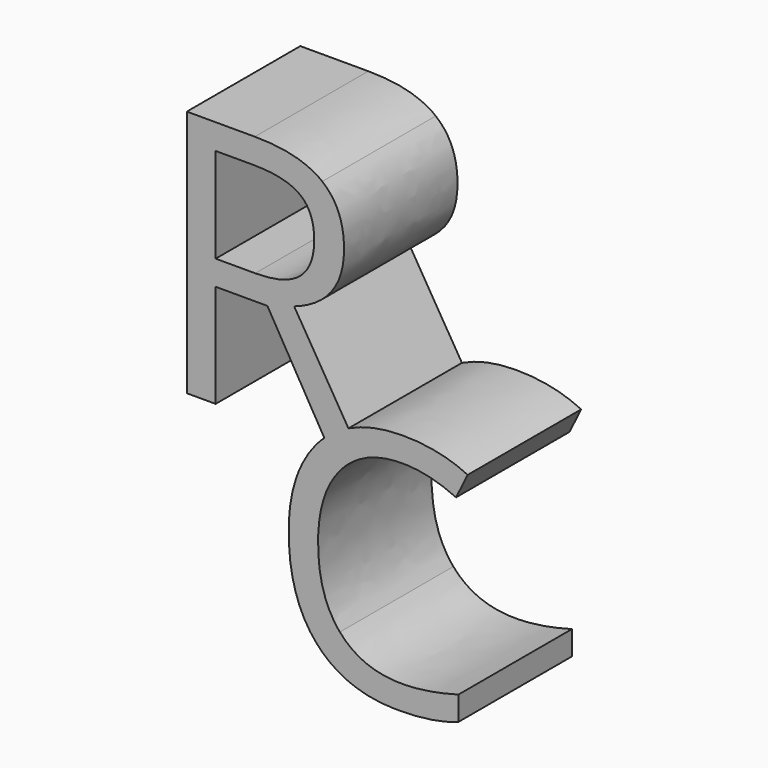
from build123d import *

# Parameters (mm, degrees)
F1_DEPTH = 25.4


with BuildPart() as f1:
    # F0 (on Front) → F1 (new body)
    with BuildSketch(Plane.XZ):
        with BuildLine():
            Line((-23.2034021339, -15.684212558), (-23.2034021339, 2.7805077763))
            Line((-23.2034021339, 2.7805077763), (-13.9321688714, 2.7805077763))
            Line((-13.9321688714, 2.7805077763), (-3.7426993589, -14.7240058528))
            add(Edge.make_bspline(
                [(-3.7426993589, -14.7240058528), (-2.3252619438, -13.4218784509), (-0.6077529949, -12.4313391875)],
                knots=[0.6285946929, 0.6285946929, 0.6285946929, 1, 1, 1], degree=2))
            add(Edge.make_bspline(
                [(-0.6077529949, -12.4313391875), (-0.0292455638, -12.0976964865), (0.5748858439, -11.8057925574)],
                knots=[0, 0, 0, 0.12510021, 0.12510021, 0.12510021], degree=2))
            Line((0.5748858439, -11.8057925574), (-9.1410598583, 4.2674036769))
            add(Edge.make_bspline(
                [(-0.2099661809, 16.1722891555), (-0.2099661809, 7.3675330382), (-9.1410598583, 4.2674036769)],
                knots=[0, 0, 0, 1, 1, 1], degree=2))
            add(Edge.make_bspline(
                [(-4.1118531357, 25.5892965259), (-0.2099661809, 22.460012343), (-0.2099661809, 16.1722891555)],
                knots=[0, 0, 0, 1, 1, 1], degree=2))
            add(Edge.make_bspline(
                [(-16.1868084069, 28.7185807089), (-8.0137400906, 28.7185807089), (-4.1118531357, 25.5892965259)],
                knots=[0, 0, 0, 1, 1, 1], degree=2))
            Line((-16.1868084069, 28.7185807089), (-28.3638055537, 28.7185807089))
            Line((-28.3638055537, 28.7185807089), (-28.3638055537, -15.684212558))
            Line((-28.3638055537, -15.684212558), (-23.2034021339, -15.684212558))
        make_face()
        with BuildLine():
            Line((-16.1187804899, 7.2120406565), (-23.2034021339, 7.2120406565))
            Line((-23.2034021339, 7.2120406565), (-23.2034021339, 24.1898650901))
            Line((-23.2034021339, 24.1898650901), (-16.4880748966, 24.1898650901))
            add(Edge.make_bspline(
                [(-8.1497959246, 22.2462103181), (-10.7445750453, 24.1898650901), (-16.4880748966, 24.1898650901)],
                knots=[0, 0, 0, 1, 1, 1], degree=2))
            add(Edge.make_bspline(
                [(-5.555016804, 15.9001774874), (-5.555016804, 20.302555546), (-8.1497959246, 22.2462103181)],
                knots=[0, 0, 0, 1, 1, 1], degree=2))
            add(Edge.make_bspline(
                [(-8.1060636922, 9.3840748642), (-5.555016804, 11.5561090719), (-5.555016804, 15.9001774874)],
                knots=[0, 0, 0, 1, 1, 1], degree=2))
            add(Edge.make_bspline(
                [(-16.1187804899, 7.2120406565), (-10.6571105805, 7.2120406565), (-8.1060636922, 9.3840748642)],
                knots=[0, 0, 0, 1, 1, 1], degree=2))
        make_face(mode=Mode.SUBTRACT)
        with BuildLine():
            add(Edge.make_bspline(
                [(-3.7426993589, -14.7240058528), (-2.3252619438, -13.4218784509), (-0.6077529949, -12.4313391875)],
                knots=[0.6285946929, 0.6285946929, 0.6285946929, 1, 1, 1], degree=2))
            Line((-3.7426993589, -14.7240058528), (-3.1837579821, -15.684212558))
            Line((-3.1837579821, -15.684212558), (2.9193180021, -15.684212558))
            Line((2.9193180021, -15.684212558), (0.5748858439, -11.8057925574))
            add(Edge.make_bspline(
                [(-0.6077529949, -12.4313391875), (-0.0292455638, -12.0976964865), (0.5748858439, -11.8057925574)],
                knots=[0, 0, 0, 0.12510021, 0.12510021, 0.12510021], degree=2))
        make_face()
        with BuildLine():
            Line((-3.1837579821, -15.684212558), (-3.7426993589, -14.7240058528))
            add(Edge.make_bspline(
                [(-7.681110171, -20.0241822677), (-6.14167864, -16.9278256655), (-3.7426993589, -14.7240058528)],
                knots=[0, 0, 0, 0.6285946929, 0.6285946929, 0.6285946929], degree=2))
            add(Edge.make_bspline(
                [(-10.1301151473, -31.4992548274), (-10.1301151473, -24.9500218224), (-7.681110171, -20.0241822677)],
                knots=[0, 0, 0, 1, 1, 1], degree=2))
            add(Edge.make_bspline(
                [(-5.0419362476, -47.6497005238), (-10.1301151473, -41.963185181), (-10.1301151473, -31.4992548274)],
                knots=[0, 0, 0, 1, 1, 1], degree=2))
            add(Edge.make_bspline(
                [(9.4062654596, -53.3362158667), (0.0462426522, -53.3362158667), (-5.0419362476, -47.6497005238)],
                knots=[0, 0, 0, 1, 1, 1], degree=2))
            add(Edge.make_bspline(
                [(20.2783633092, -51.6757162804), (15.8720096586, -53.3362158667), (9.4062654596, -53.3362158667)],
                knots=[0, 0, 0, 1, 1, 1], degree=2))
            Line((20.2783633092, -51.6757162804), (20.2783633092, -47.3621279698))
            add(Edge.make_bspline(
                [(10.1576647137, -48.957691818), (14.5918479664, -48.957691818), (20.2783633092, -47.3621279698)],
                knots=[0, 0, 0, 1, 1, 1], degree=2))
            add(Edge.make_bspline(
                [(-0.960261287, -44.4168284243), (2.9405212606, -48.957691818), (10.1576647137, -48.957691818)],
                knots=[0, 0, 0, 1, 1, 1], degree=2))
            add(Edge.make_bspline(
                [(-4.8610438346, -31.5641905654), (-4.8610438346, -39.8759650307), (-0.960261287, -44.4168284243)],
                knots=[0, 0, 0, 1, 1, 1], degree=2))
            add(Edge.make_bspline(
                [(-0.8164750099, -18.8228711145), (-4.8610438346, -23.4750529162), (-4.8610438346, -31.5641905654)],
                knots=[0, 0, 0, 1, 1, 1], degree=2))
            add(Edge.make_bspline(
                [(10.2133239177, -14.1706893128), (3.2280938147, -14.1706893128), (-0.8164750099, -18.8228711145)],
                knots=[0, 0, 0, 1, 1, 1], degree=2))
            add(Edge.make_bspline(
                [(19.8423662112, -16.4248870751), (15.0278450645, -14.1706893128), (10.2133239177, -14.1706893128)],
                knots=[0, 0, 0, 1, 1, 1], degree=2))
            Line((19.8423662112, -16.4248870751), (21.9295863615, -12.1947875705))
            add(Edge.make_bspline(
                [(10.2782596557, -9.7643356621), (16.9388110687, -9.7643356621), (21.9295863615, -12.1947875705)],
                knots=[0, 0, 0, 1, 1, 1], degree=2))
            add(Edge.make_bspline(
                [(0.5748858439, -11.8057925574), (4.799934242, -9.7643356621), (10.2782596557, -9.7643356621)],
                knots=[0.12510021, 0.12510021, 0.12510021, 1, 1, 1], degree=2))
            Line((0.5748858439, -11.8057925574), (2.9193180021, -15.684212558))
            Line((2.9193180021, -15.684212558), (-3.1837579821, -15.684212558))
        make_face()
    extrude(amount=F1_DEPTH)


solid = f1.part
